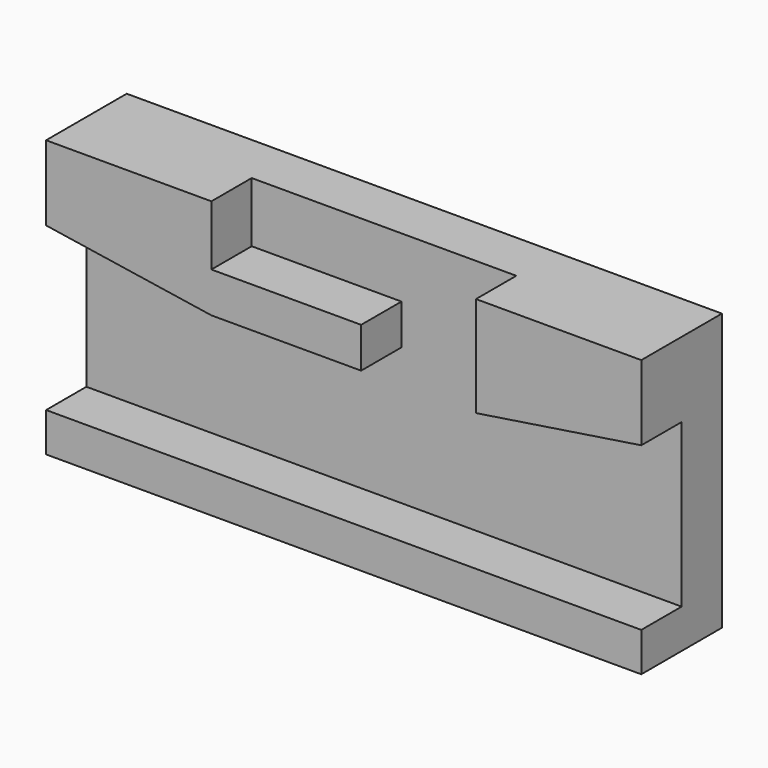
from build123d import *

# Parameters (mm, degrees)
F0_W     = 149.987
F0_H     = 69.6976
F1_DEPTH = 25.4
F2_W     = 66.675
F2_H     = 25.2984
F3_DEPTH = 12.7
F5_DEPTH = 12.7
F6_W     = 37.735215
F6_H     = 10.168377
F7_DEPTH = 12.7
F9_DEPTH = 1.3716


with BuildPart() as f1:
    # F0 (on Front) → F1 (new body)
    with BuildSketch(Plane.XZ):
        Rectangle(F0_W, F0_H)
    extrude(amount=F1_DEPTH)

    # F2 (on face) → F3 (cut)
    with BuildSketch(Plane.XZ.offset(25.4)):
        with Locations((0, 22.1996)):
            Rectangle(F2_W, F2_H)
    extrude(amount=-F3_DEPTH, mode=Mode.SUBTRACT)

    # F4 (on face) → F5 (cut)
    with BuildSketch(Plane.XZ.offset(25.4)):
        Polygon((33.3375, 9.5504), (-33.3375, 9.5504), (-74.9935, 15.9512), (-74.9935, -24.998723), (74.9935, -24.998723), (74.9935, 15.9512), align=None)
    extrude(amount=-F5_DEPTH, mode=Mode.SUBTRACT)

    # F6 (on face) → F7 (join)
    with BuildSketch(Plane.XZ.offset(12.7)):
        with Locations((-14.469893, 14.634588)):
            Rectangle(F6_W, F6_H)
    extrude(amount=F7_DEPTH)

    # F8 (on face) → F9 (join)
    with BuildSketch(Plane(origin=(0, 0, 0), x_dir=(-1, 0, 0), z_dir=(0, 1, 0))):
        Polygon((-5.378736, 13.970545), (-13.324757, 27.590852), (-14.065389, 25.489114), (-10.146485, 18.771706), (-11.020009, 17.885251), (-14.361666, 23.663847), (-14.942966, 21.517376), (-11.619632, 15.689826), (-12.511065, 14.787045), (-15.413008, 19.761277), (-16.012603, 17.598834), (-13.045956, 12.513692), (-13.982809, 11.584633), (-16.470851, 15.849397), (-17.257973, 13.296365), (-14.628438, 8.777128), (-15.523009, 7.89), (-17.603708, 11.507705), (-19.224059, 5.78715), (-2.314166, -5.613022), (-2.314166, -7.630318), (-7.419162, -13.35848), (-6.456276, -14.415695), (-3.713523, -11.190438), (-3.327152, -11.61466), (-5.894728, -14.962248), (-4.883376, -15.92657), (-2.861757, -13.310585), (-2.387249, -13.763027), (-4.326059, -16.532207), (-3.442212, -17.475365), (-1.889574, -15.639646), (-1.311372, -16.128685), (-2.922849, -18.03397), (-1.92949, -18.981067), (-1.01934, -17.795069), (-0.374972, -18.382913), (-1.436909, -19.49672), (0.299996, -21.152735), (1.878888, -19.49672), (0.919775, -18.382913), (1.456053, -17.795069), (2.404852, -18.981067), (3.415506, -18.03397), (1.820631, -16.128685), (2.404852, -15.639646), (3.941494, -17.475365), (4.840794, -16.532207), (2.89907, -13.763027), (3.395835, -13.310585), (5.390918, -15.92657), (6.449709, -14.962248), (3.797929, -11.61466), (4.333463, -11.190438), (6.88834, -14.415695), (8.049124, -13.35848), (2.832049, -7.630318), (2.832049, -5.613022), (19.73976, 5.78715), (18.108712, 11.507705), (15.947106, 7.89), (15.048685, 8.777128), (17.748964, 13.296365), (16.968758, 15.849397), (14.510422, 11.584633), (13.569537, 12.513692), (16.607948, 17.598834), (15.947106, 19.761277), (12.974964, 14.787045), (12.060693, 15.689826), (15.542698, 21.517376), (14.857555, 23.663847), (11.526601, 17.885251), (10.627024, 18.771706), (14.432989, 25.489114), (13.762125, 27.590852), (5.914255, 13.976232), (9.222287, 8.290899), (5.935366, 5.0631), (2.720125, 5.0631), (4.767341, 7.097367), (2.442414, 11.553886), (-3.681165, 9.865881), (-0.970141, 7.097367), (-3.078866, 5.03243), (-5.430478, 5.03243), (-8.664062, 8.293143), align=None)
        Polygon((-0.485612, 0.682145), (0, 2.126915), (0.485041, 0.682145), (2.099235, 0.682145), (0.796223, -0.344701), (1.207654, -1.78771), (0, -0.84399), (-1.242889, -1.792924), (-0.851036, -0.344701), (-2.131865, 0.682145), align=None, mode=Mode.SUBTRACT)
    extrude(amount=F9_DEPTH)


solid = f1.part
